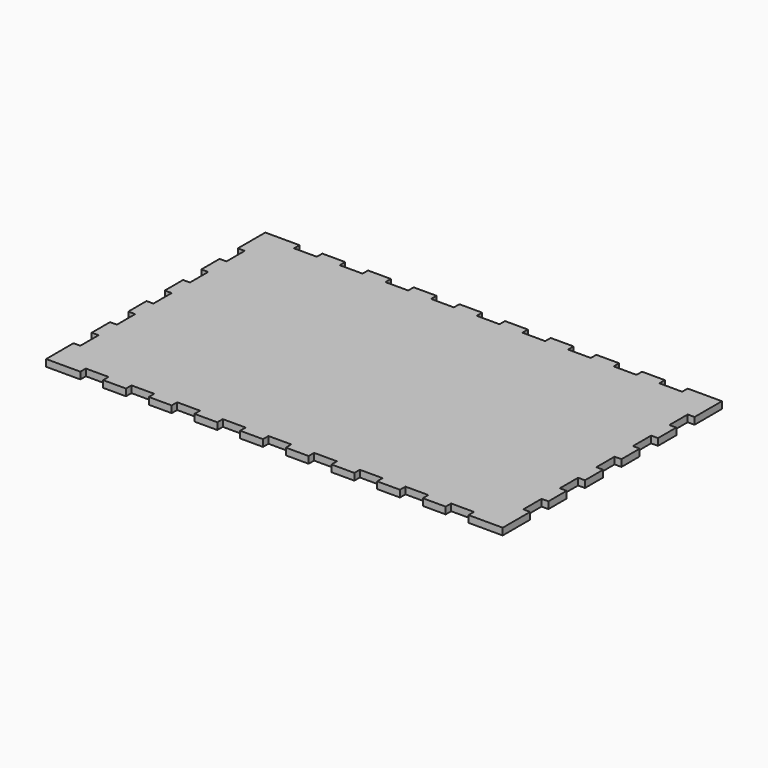
from build123d import *

# Parameters (mm, degrees)
F0_W     = 400
F0_H     = 240
F1_DEPTH = 6
F2_W     = 6
F2_H     = 20
F2_W_2   = 20
F2_H_2   = 6
F3_DEPTH = 25


with BuildPart() as f1:
    # F0 (on Top) → F1 (new body)
    with BuildSketch(Plane.XY):
        Rectangle(F0_W, F0_H)
    extrude(amount=F1_DEPTH)

    # F2 (on face) → F3 (cut)
    with BuildSketch(Plane.XY.offset(6)):
        with Locations((-197, 80)):
            Rectangle(F2_W, F2_H)
        with Locations((-197, 40)):
            Rectangle(F2_W, F2_H)
        with Locations((-197, -40)):
            Rectangle(F2_W, F2_H)
        with Locations((-197, 0)):
            Rectangle(F2_W, F2_H)
        with Locations((-197, -80)):
            Rectangle(F2_W, F2_H)
        with Locations((-160, 117)):
            Rectangle(F2_W_2, F2_H_2)
        with Locations((-120, 117)):
            Rectangle(F2_W_2, F2_H_2)
        with Locations((-80, 117)):
            Rectangle(F2_W_2, F2_H_2)
        with Locations((-40, 117)):
            Rectangle(F2_W_2, F2_H_2)
        with Locations((0, 117)):
            Rectangle(F2_W_2, F2_H_2)
        with Locations((40, 117)):
            Rectangle(F2_W_2, F2_H_2)
        with Locations((80, 117)):
            Rectangle(F2_W_2, F2_H_2)
        with Locations((120, 117)):
            Rectangle(F2_W_2, F2_H_2)
        with Locations((160, 117)):
            Rectangle(F2_W_2, F2_H_2)
        with Locations((197, 80)):
            Rectangle(F2_W, F2_H)
        with Locations((197, 40)):
            Rectangle(F2_W, F2_H)
        with Locations((197, 0)):
            Rectangle(F2_W, F2_H)
        with Locations((197, -40)):
            Rectangle(F2_W, F2_H)
        with Locations((197, -80)):
            Rectangle(F2_W, F2_H)
        with Locations((-160, -117)):
            Rectangle(F2_W_2, F2_H_2)
        with Locations((-120, -117)):
            Rectangle(F2_W_2, F2_H_2)
        with Locations((-80, -117)):
            Rectangle(F2_W_2, F2_H_2)
        with Locations((-40, -117)):
            Rectangle(F2_W_2, F2_H_2)
        with Locations((0, -117)):
            Rectangle(F2_W_2, F2_H_2)
        with Locations((40, -117)):
            Rectangle(F2_W_2, F2_H_2)
        with Locations((80, -117)):
            Rectangle(F2_W_2, F2_H_2)
        with Locations((120, -117)):
            Rectangle(F2_W_2, F2_H_2)
        with Locations((160, -117)):
            Rectangle(F2_W_2, F2_H_2)
    extrude(amount=-F3_DEPTH, mode=Mode.SUBTRACT)


solid = f1.part
